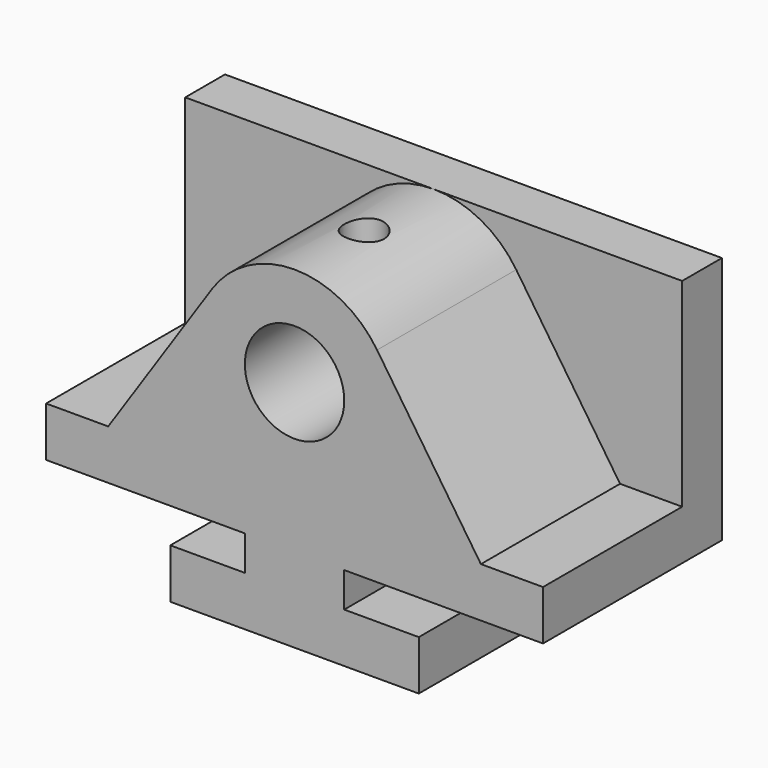
from build123d import *

# Parameters (mm, degrees)
F0_R     = 12.7
F1_DEPTH = 44.45
F2_W     = 127
F2_H     = 63.5
F3_DEPTH = 12.7
F4_R     = 12.7
F5_DEPTH = 12.701
F7_DEPTH = 25.4


with BuildPart() as f1:
    # F0 (on Front) → F1 (new body)
    with BuildSketch(Plane.XZ):
        with BuildLine():
            Line((0, 12.7), (0, 0))
            Line((0, 0), (50.8, 0))
            Line((50.8, 0), (50.8, -8.89))
            Line((50.8, -8.89), (31.75, -8.89))
            Line((31.75, -8.89), (31.75, -21.59))
            Line((31.75, -21.59), (95.25, -21.59))
            Line((95.25, -21.59), (95.25, -8.89))
            Line((95.25, -8.89), (76.2, -8.89))
            Line((76.2, -8.89), (76.2, 0))
            Line((76.2, 0), (127, 0))
            Line((127, 0), (127, 12.7))
            Line((127, 12.7), (111.125, 12.7))
            Line((111.125, 12.7), (84.593426, 52.250173))
            ThreePointArc((84.593426, 52.250173), (63.5, 63.5), (42.406574, 52.250173))
            Line((42.406574, 52.250173), (15.875, 12.7))
            Line((15.875, 12.7), (0, 12.7))
        make_face()
        with Locations((63.5, 38.1)):
            Circle(F0_R, mode=Mode.SUBTRACT)
    extrude(amount=F1_DEPTH)

    # F2 (on face) → F3 (join)
    with BuildSketch(Plane(origin=(0, 0, 0), x_dir=(-1, 0, 0), z_dir=(0, 1, 0))):
        with Locations((-63.5, 31.75)):
            Rectangle(F2_W, F2_H)
    extrude(amount=F3_DEPTH)

    # F4 (on face) → F5 (cut, through all)
    with BuildSketch(Plane.XZ):
        with Locations((63.5, 38.1)):
            Circle(F4_R)
    extrude(amount=-F5_DEPTH, mode=Mode.SUBTRACT)

    # F6 (on face) → F7 (cut)
    with BuildSketch(Plane.XY.offset(63.5)):
        with BuildLine():
            Line((63.5, -22.225), (68.58, -22.225))
            ThreePointArc((68.58, -22.225), (63.5, -17.145), (58.42, -22.225))
            Line((58.42, -22.225), (63.5, -22.225))
        make_face()
        with BuildLine():
            ThreePointArc((58.42, -22.225), (63.5, -27.305), (68.58, -22.225))
            Line((68.58, -22.225), (63.5, -22.225))
            Line((63.5, -22.225), (58.42, -22.225))
        make_face()
    extrude(amount=-F7_DEPTH, mode=Mode.SUBTRACT)


solid = f1.part
